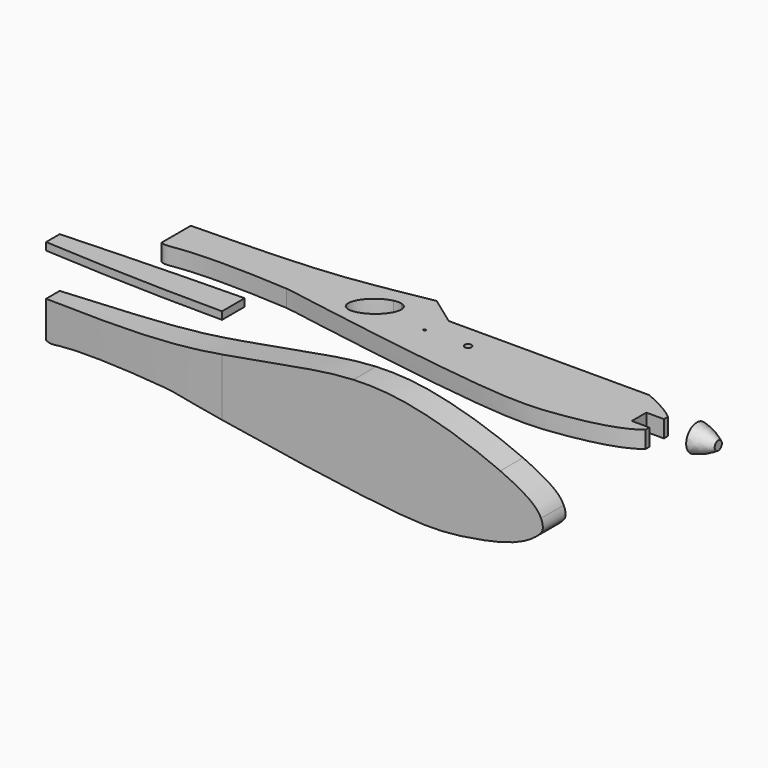
from build123d import *

# Parameters (mm, degrees)
F1_DEPTH = 50
F0_W     = 317.8466722451
F0_H     = 13.3516192436
F3_DEPTH = 1500
F6_W     = 100
F6_H     = 8
F6_R     = 2
F7_DEPTH = 30


with BuildPart() as f1:
    # F0 (on Front) → F1 (new body)
    with BuildSketch(Plane.XZ):
        with BuildLine():
            Line((-92.2688558526, 18.3382586387), (-641.5441498242, 18.3382586387))
            Line((-641.5441498242, 18.3382586387), (-641.5441498242, -45.7217364761))
            add(Edge.make_bspline(
                [(-641.5441498242, -45.7217364761), (-634.7905397415, -50.0761270524), (-604.8932332178, -41.2842312856), (-506.8314957663, -39.6971155018), (-421.6484069347, -45.7217364761)],
                knots=[0, 0, 0, 0, 0.2796888649, 1, 1, 1, 1], degree=3))
            add(Edge.make_bspline(
                [(-92.2688558526, -97.0879061647), (-193.8096296355, -83.8930034142), (-378.50831803, -53.3303829833), (-413.4133160114, -46.2517477573), (-421.6484069347, -45.7217364761)],
                knots=[0.5566081187, 0.5566081187, 0.5566081187, 0.5566081187, 0.862887202, 1, 1, 1, 1], degree=3))
            Line((-92.2688558526, -97.0879061647), (-92.2688558526, 18.3382586387))
        make_face()
        with BuildLine():
            Line((166.5022664445, 18.3382586387), (-92.2688558526, 18.3382586387))
            Line((-92.2688558526, 18.3382586387), (-92.2688558526, -97.0879061647))
            add(Edge.make_bspline(
                [(238.9060020924, -53.6676838252), (214.0259390291, -83.879161814), (104.3641030377, -106.8449990114), (35.4021859771, -112.3363976445), (-63.6852582604, -100.8022543663), (-92.2688558526, -97.0879061647)],
                knots=[0, 0, 0, 0, 0.2344718991, 0.4703909496, 0.5566081187, 0.5566081187, 0.5566081187, 0.5566081187], degree=3))
            add(Edge.make_bspline(
                [(238.9060020924, -53.6676838252), (242.7234113693, -48.1862842295), (241.7380916069, -40.0359209618), (238.4489816883, -32.4629603062), (238.2021409461, -31.9258788924)],
                knots=[0, 0, 0, 0, 0.0586221346, 0.0631195824, 0.0631195824, 0.0631195824, 0.0631195824], degree=3))
            add(Edge.make_bspline(
                [(238.2021409461, -31.9258788924), (233.634977015, -21.9885450492), (219.6243183798, -7.6030613206), (182.3729880207, 11.2734958473), (166.5022664445, 18.3382586386)],
                knots=[0.0631195824, 0.0631195824, 0.0631195824, 0.0631195824, 0.1463334835, 0.1950005061, 0.1950005061, 0.1950005061, 0.1950005061], degree=3))
        make_face()
        with BuildLine():
            Line((-92.2688558526, 75.4822293566), (-92.2688558526, 18.3382586387))
            Line((-92.2688558526, 18.3382586387), (166.5022664445, 18.3382586387))
            add(Edge.make_bspline(
                [(166.5022664445, 18.3382586386), (118.1504529994, 39.861797495), (14.8777125002, 73.9100474389), (-66.0355828244, 76.6980963515), (-92.2688558526, 75.4822293566)],
                knots=[0.1950005061, 0.1950005061, 0.1950005061, 0.1950005061, 0.3432696814, 0.4199554493, 0.4199554493, 0.4199554493, 0.4199554493], degree=3))
        make_face()
        with BuildLine():
            add(Edge.make_bspline(
                [(-92.2688558526, 75.4822293566), (-126.4459647483, 73.8981792593), (-210.2145894378, 60.0771392783), (-343.8378962034, 34.2516843542), (-458.8172888723, 22.2125576311), (-576.1514595784, 19.726094248), (-641.5441498242, 18.3382586387)],
                knots=[0.4199554493, 0.4199554493, 0.4199554493, 0.4199554493, 0.5198628393, 0.6824214237, 0.8229949084, 1, 1, 1, 1], degree=3))
            Line((-641.5441498242, 18.3382586387), (-92.2688558526, 18.3382586387))
            Line((-92.2688558526, 18.3382586387), (-92.2688558526, 75.4822293566))
        make_face()
    extrude(amount=F1_DEPTH)


with BuildPart() as f1b:
    # F0 (on Front) → F1, piece 2 (new body)
    with BuildSketch(Plane.XZ):
        with Locations((-482.6208137017, 99.6472090483)):
            Rectangle(F0_W, F0_H)
    extrude(amount=F1_DEPTH)


with BuildPart() as f3_tool:
    # F2 (on face) → F3 (new body)
    with BuildSketch(Plane.XY.offset(106.3230186701)):
        with BuildLine():
            Line((-641.5441498242, 0), (-641.5441498242, -10))
            ThreePointArc((-641.5441498242, -10), (-482.6577376344, -3.8263850851), (-323.6974775791, 0))
            Line((-323.6974775791, 0), (-641.5441498242, 0))
        make_face()
        with BuildLine():
            ThreePointArc((-323.6974775791, -50), (-482.6994485239, -47.4993816565), (-641.5441498242, -40))
            Line((-641.5441498242, -40), (-641.5441498242, -50))
            Line((-641.5441498242, -50), (-323.6974775791, -50))
        make_face()
    extrude(amount=-F3_DEPTH)


with BuildPart() as f1_1:
    add(f1.part)

    # F3: cut by f3_tool
    add(f3_tool.part, mode=Mode.SUBTRACT)


with BuildPart() as f1b_1:
    add(f1b.part)

    # F3: cut by f3_tool
    add(f3_tool.part, mode=Mode.SUBTRACT)


with BuildPart() as f5:
    # F4 (on Top) → F5 (revolve)
    with BuildSketch(Plane.XY):
        with BuildLine():
            Line((293.6271727085, 247.3111026287), (293.6271727085, 223.8111026287))
            Line((293.6271727085, 223.8111026287), (331.4271727085, 223.8111026287))
            Line((331.4271727085, 223.8111026287), (331.4271727085, 231.8111026287))
            ThreePointArc((331.4271727085, 231.8111026287), (313.2929954526, 241.428721966), (293.6271727085, 247.3111026287))
        make_face()
    revolve(axis=Axis((312.5271727085, 223.8111026287, 0), (1, 0, 0)))


with BuildPart() as f7:
    # F6 (on Top) → F7 (new body)
    with BuildSketch(Plane.XY):
        with Locations((-558.0053578582, 212.717464368)):
            Rectangle(F6_W, F6_H)
        with BuildLine():
            Line((-250.6401846367, 236.7174643679), (-608.0053578582, 236.7174643679))
            Line((-608.0053578582, 236.7174643679), (-608.0053578582, 216.717464368))
            Line((-608.0053578582, 216.717464368), (-508.0053578582, 216.717464368))
            Line((-508.0053578582, 216.717464368), (-508.0053578582, 208.717464368))
            Line((-508.0053578582, 208.717464368), (-608.0053578582, 208.717464368))
            Line((-608.0053578582, 208.717464368), (-608.0053578582, 172.6574692531))
            add(Edge.make_bspline(
                [(-608.0053578582, 172.6574692531), (-601.2517477755, 168.3030786769), (-571.3544412517, 177.0949744437), (-473.2927038003, 178.6820902275), (-388.1096149687, 172.6574692531)],
                knots=[0, 0, 0, 0, 0.2796888649, 1, 1, 1, 1], degree=3))
            add(Edge.make_bspline(
                [(259.9661303996, 152.7812669099), (232.0815068677, 131.2964826553), (133.7182142458, 111.2009829448), (30.9940058765, 103.0211120616), (-338.1822792938, 163.6723882279), (-379.8745240454, 172.127457972), (-388.1096149687, 172.6574692531)],
                knots=[0.0337755588, 0.0337755588, 0.0337755588, 0.0337755588, 0.2344718991, 0.4703909496, 0.862887202, 1, 1, 1, 1], degree=3))
            Line((259.9661303996, 152.7812669099), (259.9661303996, 161.4312250318))
            Line((259.9661303996, 161.4312250318), (228.9661303996, 161.4312250318))
            Line((228.9661303996, 161.4312250318), (228.9661303996, 177.4312250318))
            Line((228.9661303996, 177.4312250318), (228.9661303996, 186.453326837))
            Line((228.9661303996, 186.453326837), (228.9661303996, 193.4312250318))
            Line((228.9661303996, 193.4312250318), (259.9661303996, 193.4312250318))
            Line((259.9661303996, 193.4312250318), (259.9661303996, 202.0811831537))
            add(Edge.make_bspline(
                [(259.9661303996, 202.0811831537), (255.0551260661, 206.6227472636), (244.9596827646, 213.9663165186), (229.9083399795, 222.2675736066), (223.8504781828, 225.3777306739)],
                knots=[0.1076722035, 0.1076722035, 0.1076722035, 0.1076722035, 0.1463334835, 0.168572427, 0.168572427, 0.168572427, 0.168572427], degree=3))
            Line((223.8504781828, 225.3777306739), (204.9262002253, 205.3693207323))
            Line((204.9262002253, 205.3693207323), (-153.734513735, 236.717464368))
            Line((-153.734513735, 236.7174643679), (-236.4731576708, 236.7174643679))
            add(Edge.make_bspline(
                [(-292.0151650906, 182.805031538), (-275.176870524, 161.0782124027), (-240.7297962269, 194.5146268484), (-206.2827219298, 227.9510412941), (-236.4731576708, 236.7174643679)],
                knots=[0, 0, 0, 1.765837173, 1.765837173, 3.5316743461, 3.5316743461, 3.5316743461], degree=2, weights=[1, 0.6348989656, 1, 0.6348989656, 1]))
            add(Edge.make_bspline(
                [(-250.6401846367, 236.7174643679), (-321.7854800529, 221.2183189544), (-292.0151650906, 182.805031538)],
                knots=[4.0117811687, 4.0117811687, 4.0117811687, 6.2831853072, 6.2831853072, 6.2831853072], degree=2, weights=[1, 0.4214958788, 1]))
        make_face()
        Polygon((-12.2165865784, 195.8500338705), (-11.0413590846, 195.0440865754), (-10.2569755968, 194.3944768828), (-9.7286623198, 193.8688590816), (-9.3701640247, 193.4375829371), (-9.1302666693, 193.0143932203), (-8.9847109705, 192.4806889915), (-8.9415833561, 192.1194952205), (-9.0143612054, 191.936202859), (-9.1895671391, 191.5723136121), (-9.4779830608, 191.1706877025), (-9.9038682535, 190.7879301243), (-10.5157412835, 190.3701313593), (-11.3998573798, 189.8795547449), (-12.7179450964, 189.2784636185), (-14.5751279937, 188.6045946427), (-16.8420232283, 187.95498495), (-19.3434248665, 187.3781531067), (-21.9769048239, 186.868708161), (-24.6885535825, 186.423954637), (-27.4379390038, 186.0438925346), (-30.2250610877, 185.7123489985), (-33.0364424548, 185.4266285528), (-35.8639966772, 185.1759492938), (-38.7023328033, 184.9576157457), (-41.551450833, 184.7689324324), (-44.4086552904, 184.6045084023), (-47.2766416514, 184.4616481795), (-50.1500189642, 184.3430472397), (-53.023396277, 184.2406191554), (-55.9021645416, 184.1543639265), (-58.7836282821, 184.0896725048), (-61.6704829745, 184.0357629868), (-64.5600331427, 183.9953308482), (-67.4522787868, 183.9683760892), (-70.341828955, 183.9522032338), (-73.2340745992, 183.9522032338), (-76.1290157192, 183.9575941856), (-79.0266523152, 183.973767041), (-81.9242889111, 184.0007218), (-84.821925507, 184.0384584627), (-87.7222575789, 184.0815860771), (-90.6198941748, 184.1328001193), (-93.5202262467, 184.1921005891), (-96.4232537944, 184.2621829626), (-99.3235858663, 184.334960812), (-102.226613414, 184.4158250891), (-105.1296409617, 184.502080318), (-108.0299730336, 184.5937264987), (-110.9356960572, 184.696154583), (-113.838723605, 184.8012781433), (-116.7417511527, 184.9090971794), (-119.6474741764, 185.0276981191), (-122.5505017241, 185.1462990589), (-125.4535292719, 185.2675954745), (-128.3592522955, 185.3915873661), (-131.2622798433, 185.5209702094), (-134.1680028669, 185.6557440046), (-137.0683349388, 185.7932132756), (-139.9713624865, 185.9333780226), (-142.8770855102, 186.0762382455), (-145.7801130579, 186.2190984684), (-148.6804451298, 186.367349643), (-151.5807772016, 186.5209917695), (-154.4811092734, 186.674633896), (-157.3814413453, 186.8336669743), (-160.2817734171, 186.9980910044), (-163.182105489, 187.1652105104), (-166.0824375608, 187.3350254923), (-168.9827696327, 187.510231426), (-171.8857971804, 187.6908283115), (-174.7888247281, 187.8687297211), (-176.8647465604, 187.9954782198), (-183.7571243637, 202.0062016985), (-180.8617319379, 202.2733529478), (-177.9694862939, 202.5375095863), (-175.0745451739, 202.7989707489), (-172.1822995298, 203.0523454838), (-169.2900538856, 203.3003292669), (-166.3978082415, 203.5429220982), (-163.5028671214, 203.7747330259), (-160.6106214773, 204.0011530018), (-157.7156803573, 204.2194865499), (-154.8234347131, 204.4297336704), (-151.9284935931, 204.634589839), (-149.036247949, 204.8259686281), (-146.1440023048, 205.0146519414), (-143.2490611848, 205.1952488269), (-140.3568155407, 205.3677592847), (-137.4618744206, 205.5321833148), (-134.5669333006, 205.6885209172), (-131.6773831324, 205.8394675677), (-128.7797465364, 205.9796323147), (-125.8875008923, 206.111710634), (-122.9952552482, 206.2357025255), (-120.103009604, 206.3516079894), (-117.208068484, 206.4567315496), (-114.3185183158, 206.5537686821), (-111.4235771957, 206.640023911), (-108.5340270275, 206.7128017604), (-105.6444768593, 206.7774931821), (-102.7522312151, 206.8287072242), (-99.8653765228, 206.8664438869), (-96.9758263546, 206.8960941218), (-94.0916671391, 206.9095715013), (-91.202116969, 206.9095715013), (-88.3206532294, 206.8960941218), (-85.4337985371, 206.8691393628), (-82.5550302724, 206.8287072242), (-79.6735665319, 206.7694067543), (-76.7974937432, 206.696628905), (-73.9214209545, 206.6022872484), (-71.0507391176, 206.4917727363), (-68.1773618048, 206.362389893), (-65.3093754438, 206.2114432424), (-62.4494755105, 206.0416282605), (-59.5868801013, 205.8475539955), (-56.7323711198, 205.6292204473), (-53.885948566, 205.3893230919), (-51.0422214881, 205.1197755016), (-48.206580838, 204.8232731522), (-45.3790266155, 204.4917296161), (-42.5595588208, 204.1305358451), (-39.7562638814, 203.7316054114), (-36.9664463216, 203.2922428392), (-34.1928016172, 202.8124481284), (-31.4380252442, 202.2814393755), (-28.712899106, 201.7019120563), (-26.0201186787, 201.0603887914), (-23.3758568177, 200.3514786288), (-20.7962863783, 199.5724860928), (-18.3137530715, 198.7261066592), (-15.9767754634, 197.7961674726), (-13.8850861625, 196.8042323402), align=None, mode=Mode.SUBTRACT)
        with BuildLine():
            add(Edge.make_bspline(
                [(-203.7130657509, 272.9584963955), (-240.820726705, 266.2190918688), (-321.7536265031, 251.4315234673), (-425.2784969062, 240.5917633604), (-542.6126676123, 238.1052999772), (-608.0053578582, 236.7174643679)],
                knots=[0.5676952523, 0.5676952523, 0.5676952523, 0.5676952523, 0.6824214237, 0.8229949084, 1, 1, 1, 1], degree=3))
            Line((-608.0053578582, 236.7174643679), (-250.6401846367, 236.7174643679))
            add(Edge.make_bspline(
                [(-236.4731576708, 236.7174643679), (-242.5459170902, 238.4808168003), (-250.6401846367, 236.7174643679)],
                knots=[3.5316743461, 3.5316743461, 3.5316743461, 4.0117811687, 4.0117811687, 4.0117811687], degree=2, weights=[1, 0.9713252775, 1]))
            Line((-236.4731576708, 236.7174643679), (-153.734513735, 236.7174643679))
            Line((-153.734513735, 236.7174643679), (-203.7130657509, 272.9584963955))
        make_face()
        with BuildLine():
            add(Edge.make_bspline(
                [(223.8504781828, 225.3777306739), (216.6515008414, 229.0737460349), (208.659475201, 232.8810244196), (200.0410584104, 236.7174643679)],
                knots=[0.168572427, 0.168572427, 0.168572427, 0.168572427, 0.1950005061, 0.1950005061, 0.1950005061, 0.1950005061], degree=3))
            Line((200.0410584104, 236.7174643679), (-153.734513735, 236.7174643679))
            Line((-153.734513735, 236.717464368), (204.9262002253, 205.3693207323))
            Line((204.9262002253, 205.3693207323), (223.8504781828, 225.3777306739))
        make_face()
        Polygon((-10.2569755968, 194.3944768828), (-11.0413590846, 195.0440865754), (-12.2165865784, 195.8500338705), (-13.8850861625, 196.8042323402), (-15.9767754634, 197.7961674726), (-18.3137530715, 198.7261066592), (-20.7962863783, 199.5724860928), (-23.3758568177, 200.3514786288), (-26.0201186787, 201.0603887914), (-28.712899106, 201.7019120563), (-31.4380252442, 202.2814393755), (-34.1928016172, 202.8124481285), (-36.9664463216, 203.2922428392), (-39.7562638814, 203.7316054114), (-42.5595588208, 204.1305358451), (-45.3790266155, 204.4917296161), (-48.206580838, 204.8232731522), (-51.0422214881, 205.1197755016), (-53.885948566, 205.3893230919), (-56.7323711198, 205.6292204473), (-59.5868801013, 205.8475539955), (-62.4494755105, 206.0416282605), (-65.3093754438, 206.2114432424), (-68.1773618048, 206.362389893), (-71.0507391176, 206.4917727363), (-73.9214209545, 206.6022872484), (-76.7974937432, 206.696628905), (-79.6735665319, 206.7694067543), (-82.5550302724, 206.8287072242), (-85.4337985371, 206.8691393628), (-88.3206532294, 206.8960941218), (-91.2021169699, 206.9095715013), (-94.0916671391, 206.9095715013), (-96.9758263546, 206.8960941218), (-99.8653765228, 206.8664438869), (-102.7522312151, 206.8287072242), (-105.6444768593, 206.7774931821), (-108.5340270275, 206.7128017604), (-111.4235771957, 206.640023911), (-114.3185183158, 206.5537686821), (-117.208068484, 206.4567315496), (-120.103009604, 206.3516079894), (-122.9952552482, 206.2357025255), (-125.8875008923, 206.111710634), (-128.7797465364, 205.9796323147), (-131.6773831324, 205.8394675677), (-134.5669333006, 205.6885209172), (-137.4618744206, 205.5321833148), (-140.3568155407, 205.3677592847), (-143.2490611848, 205.1952488269), (-146.1440023048, 205.0146519414), (-149.036247949, 204.8259686281), (-151.9284935931, 204.634589839), (-154.8234347131, 204.4297336704), (-157.7156803573, 204.2194865499), (-160.6106214773, 204.0011530018), (-163.5028671214, 203.7747330259), (-166.3978082415, 203.5429220982), (-169.2900538856, 203.3003292669), (-172.1822995298, 203.0523454838), (-175.0745451739, 202.7989707489), (-177.9694862939, 202.5375095863), (-180.8617319379, 202.2733529478), (-183.7571243637, 202.0062016985), (-176.8647465604, 187.9954782198), (-174.7888247281, 187.8687297211), (-171.8857971804, 187.6908283115), (-168.9827696327, 187.510231426), (-166.0824375608, 187.3350254923), (-163.182105489, 187.1652105104), (-160.2817734171, 186.9980910044), (-157.3814413453, 186.8336669743), (-154.4811092734, 186.674633896), (-151.5807772016, 186.5209917695), (-148.6804451298, 186.367349643), (-145.7801130579, 186.2190984683), (-142.8770855102, 186.0762382455), (-139.9713624865, 185.9333780226), (-137.0683349388, 185.7932132756), (-134.1680028669, 185.6557440046), (-131.2622798433, 185.5209702094), (-128.3592522955, 185.3915873661), (-125.4535292719, 185.2675954745), (-122.5505017241, 185.1462990589), (-119.6474741764, 185.0276981191), (-116.7417511527, 184.9090971794), (-113.838723605, 184.8012781433), (-110.9356960572, 184.696154583), (-108.0299730336, 184.5937264987), (-105.1296409617, 184.502080318), (-102.226613414, 184.4158250891), (-99.3235858663, 184.334960812), (-96.4232537944, 184.2621829626), (-93.5202262467, 184.1921005891), (-90.6198941748, 184.1328001193), (-87.7222575789, 184.0815860771), (-84.821925507, 184.0384584627), (-81.9242889111, 184.0007218), (-79.0266523152, 183.973767041), (-76.1290157192, 183.9575941856), (-73.2340745992, 183.9522032338), (-70.341828955, 183.9522032338), (-67.4522787868, 183.9683760892), (-64.5600331427, 183.9953308482), (-61.6704829745, 184.0357629868), (-58.7836282821, 184.0896725048), (-55.9021645416, 184.1543639265), (-53.023396277, 184.2406191554), (-50.1500189642, 184.3430472397), (-47.2766416514, 184.4616481795), (-44.4086552904, 184.6045084023), (-41.551450833, 184.7689324324), (-38.7023328033, 184.9576157457), (-35.8639966772, 185.1759492938), (-33.0364424548, 185.4266285528), (-30.2250610877, 185.7123489985), (-27.4379390038, 186.0438925346), (-24.6885535825, 186.423954637), (-21.9769048239, 186.868708161), (-19.3434248665, 187.3781531067), (-16.8420232283, 187.95498495), (-14.5751279937, 188.6045946427), (-12.7179450964, 189.2784636185), (-11.3998573798, 189.8795547449), (-10.5157412835, 190.3701313593), (-9.9038682535, 190.7879301243), (-9.4779830608, 191.1706877025), (-9.1895671391, 191.5723136121), (-9.0143612054, 191.936202859), (-8.9415833561, 192.1194952205), (-8.9847109705, 192.4806889915), (-9.1302666693, 193.0143932203), (-9.3701640247, 193.4375829371), (-9.7286623198, 193.8688590816), align=None)
        with Locations((-162.997122293, 195.2246472574)):
            Circle(F6_R, mode=Mode.SUBTRACT)
        with BuildLine():
            ThreePointArc((-80.3069402032, 195.2246472574), (-86.3069402032, 189.2246472574), (-92.3069402032, 195.2246472574))
            ThreePointArc((-92.3069402032, 195.2246472574), (-86.3069402032, 201.2246472574), (-80.3069402032, 195.2246472574))
        make_face(mode=Mode.SUBTRACT)
    extrude(amount=F7_DEPTH)


solid = Compound([f1_1.part, f1b_1.part, f5.part, f7.part])
